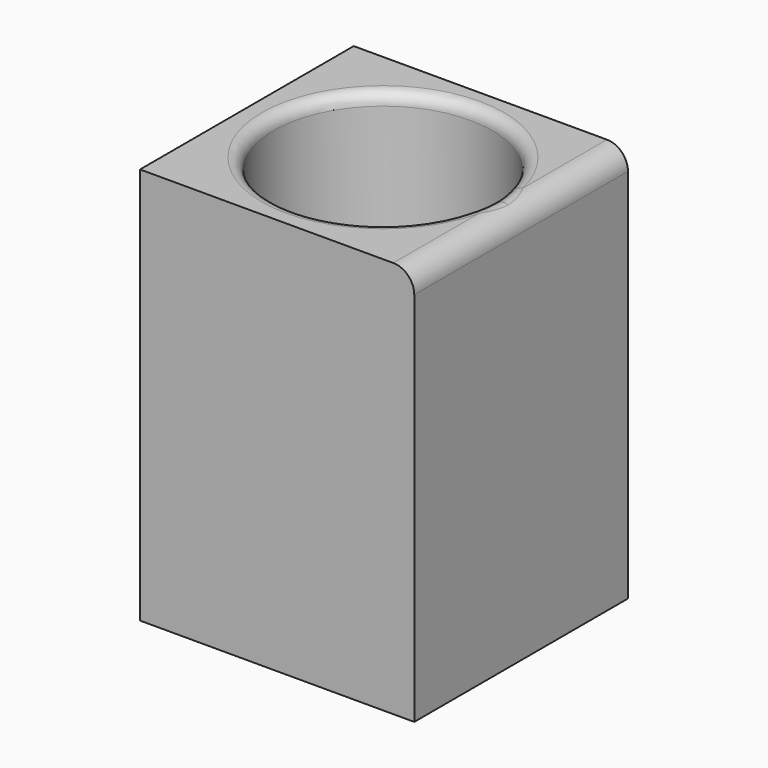
from build123d import *

# Parameters (mm, degrees)
F0_W     = 127.844266
F0_H     = 124.537945
F0_R     = 50.933349
F1_DEPTH = 185.166
F2_R     = 9.811364
F3_R     = 5.518892


with BuildPart() as f1:
    # F0 (on Top) → F1 (new body)
    with BuildSketch(Plane.XY):
        with Locations((0.874225, -0.474699)):
            Rectangle(F0_W, F0_H)
        Circle(F0_R, mode=Mode.SUBTRACT)
    extrude(amount=F1_DEPTH)

    # F2
    f2_edges = [f1.edges().sort_by_distance(p)[0] for p in [
        (64.796358, -0.474699, 185.166),
    ]]
    fillet(f2_edges, radius=F2_R)

    # F3
    f3_edges = [f1.edges().sort_by_distance(p)[0] for p in [
        (-50.933349, 0, 185.166),
    ]]
    fillet(f3_edges, radius=F3_R)


solid = f1.part
